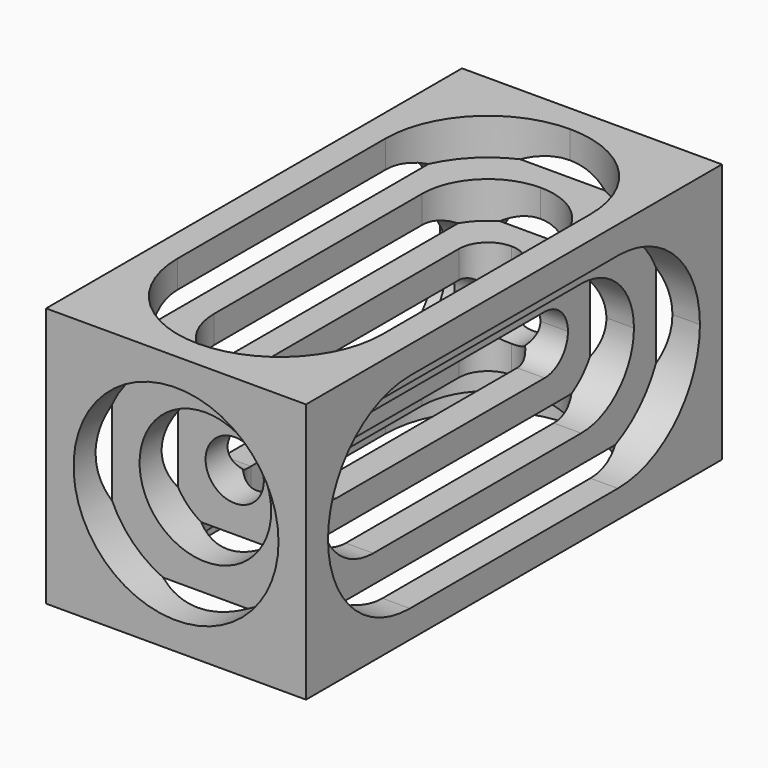
from build123d import *

# Parameters (mm, degrees)
F0_W      = 36.0172
F0_H      = 36.0172
F1_DEPTH  = 72.0344
F1_FACE_W = 36.0172
F1_FACE_H = 36.0172
F2_DEPTH  = 30.3022
F4_DEPTH  = 5.08
F6_DEPTH  = 5.08
F8_DEPTH  = 5.08
F10_DEPTH = 5.08
F12_DEPTH = 5.08
F14_DEPTH = 5.08
F16_DEPTH = 5.08
F18_DEPTH = 5.08
F20_DEPTH = 5.08
F22_DEPTH = 5.08
F24_DEPTH = 5.08
F26_DEPTH = 5.08
F28_DEPTH = 17.78
F30_DEPTH = 17.78
F32_DEPTH = 5.08
F34_DEPTH = 5.08


with BuildPart() as f1:
    # F0 (on Front) → F1 (new body)
    with BuildSketch(Plane.XZ):
        Rectangle(F0_W, F0_H)
    extrude(amount=-F1_DEPTH)

    # F3 (on face) → F4 (cut)
    with BuildSketch(Plane.XY.offset(18.0086)):
        with BuildLine():
            ThreePointArc((-14.1986, 18.0086), (-10.039926, 7.968674), (0, 3.81))
            ThreePointArc((0, 3.81), (10.039926, 7.968674), (14.1986, 18.0086))
            ThreePointArc((14.1986, 18.0086), (0, 32.2072), (-14.1986, 18.0086))
        make_face()
        with BuildLine():
            ThreePointArc((14.1986, 54.0258), (10.039926, 64.065726), (0, 68.2244))
            ThreePointArc((0, 68.2244), (-10.039926, 64.065726), (-14.1986, 54.0258))
            ThreePointArc((-14.1986, 54.0258), (0, 39.8272), (14.1986, 54.0258))
        make_face()
        with BuildLine():
            Line((-14.1986, 54.0258), (-14.1986, 18.0086))
            ThreePointArc((-14.1986, 18.0086), (0, 32.2072), (14.1986, 18.0086))
            Line((14.1986, 18.0086), (14.1986, 54.0258))
            ThreePointArc((14.1986, 54.0258), (0, 39.8272), (-14.1986, 54.0258))
        make_face()
    extrude(amount=-F4_DEPTH, mode=Mode.SUBTRACT)

    # F5 (on face) → F6 (cut)
    with BuildSketch(Plane.YZ.offset(18.0086)):
        with BuildLine():
            ThreePointArc((18.0086, -14.1986), (28.048526, -10.039926), (32.2072, 0))
            ThreePointArc((32.2072, 0), (28.048526, 10.039926), (18.0086, 14.1986))
            ThreePointArc((18.0086, 14.1986), (7.968674, 10.039926), (3.81, 0))
            ThreePointArc((3.81, 0), (7.968674, -10.039926), (18.0086, -14.1986))
        make_face()
        with BuildLine():
            ThreePointArc((18.0086, 14.1986), (28.048526, 10.039926), (32.2072, 0))
            ThreePointArc((32.2072, 0), (28.048526, -10.039926), (18.0086, -14.1986))
            Line((18.0086, -14.1986), (54.0258, -14.1986))
            ThreePointArc((54.0258, -14.1986), (39.8272, 0), (54.0258, 14.1986))
            Line((54.0258, 14.1986), (18.0086, 14.1986))
        make_face()
        with BuildLine():
            ThreePointArc((68.2244, 0), (64.065726, 10.039926), (54.0258, 14.1986))
            ThreePointArc((54.0258, 14.1986), (39.8272, 0), (54.0258, -14.1986))
            ThreePointArc((54.0258, -14.1986), (64.065726, -10.039926), (68.2244, 0))
        make_face()
    extrude(amount=-F6_DEPTH, mode=Mode.SUBTRACT)

    # F7 (on face) → F8 (cut)
    with BuildSketch(Plane(origin=(0, 0, -18.0086), x_dir=(1, 0, 0), z_dir=(0, 0, -1))):
        with BuildLine():
            ThreePointArc((0, -68.2244), (10.039926, -64.065726), (14.1986, -54.0258))
            ThreePointArc((14.1986, -54.0258), (0, -39.8272), (-14.1986, -54.0258))
            ThreePointArc((-14.1986, -54.0258), (-10.039926, -64.065726), (0, -68.2244))
        make_face()
        with BuildLine():
            ThreePointArc((-14.1986, -54.0258), (0, -39.8272), (14.1986, -54.0258))
            Line((14.1986, -54.0258), (14.1986, -18.0086))
            ThreePointArc((14.1986, -18.0086), (0, -32.2072), (-14.1986, -18.0086))
            Line((-14.1986, -18.0086), (-14.1986, -54.0258))
        make_face()
        with BuildLine():
            ThreePointArc((-14.1986, -18.0086), (0, -32.2072), (14.1986, -18.0086))
            ThreePointArc((14.1986, -18.0086), (10.039926, -7.968674), (0, -3.81))
            ThreePointArc((0, -3.81), (-10.039926, -7.968674), (-14.1986, -18.0086))
        make_face()
    extrude(amount=-F8_DEPTH, mode=Mode.SUBTRACT)

    # F9 (on face) → F10 (cut)
    with BuildSketch(Plane(origin=(-18.0086, 0, 0), x_dir=(0, -1, 0), z_dir=(-1, 0, 0))):
        with BuildLine():
            ThreePointArc((-54.0258, -14.1986), (-43.985874, -10.039926), (-39.8272, 0))
            ThreePointArc((-39.8272, 0), (-43.985874, 10.039926), (-54.0258, 14.1986))
            ThreePointArc((-54.0258, 14.1986), (-64.065726, 10.039926), (-68.2244, 0))
            ThreePointArc((-68.2244, 0), (-64.065726, -10.039926), (-54.0258, -14.1986))
        make_face()
        with BuildLine():
            ThreePointArc((-54.0258, 14.1986), (-43.985874, 10.039926), (-39.8272, 0))
            ThreePointArc((-39.8272, 0), (-43.985874, -10.039926), (-54.0258, -14.1986))
            Line((-54.0258, -14.1986), (-18.0086, -14.1986))
            ThreePointArc((-18.0086, -14.1986), (-32.2072, 0), (-18.0086, 14.1986))
            Line((-18.0086, 14.1986), (-54.0258, 14.1986))
        make_face()
        with BuildLine():
            ThreePointArc((-3.81, 0), (-7.968674, 10.039926), (-18.0086, 14.1986))
            ThreePointArc((-18.0086, 14.1986), (-32.2072, 0), (-18.0086, -14.1986))
            ThreePointArc((-18.0086, -14.1986), (-7.968674, -10.039926), (-3.81, 0))
        make_face()
    extrude(amount=-F10_DEPTH, mode=Mode.SUBTRACT)

    # F11 (on face) → F12 (cut)
    with BuildSketch(Plane.XZ):
        with BuildLine():
            ThreePointArc((-14.1986, 0), (0, -14.1986), (14.1986, 0))
            ThreePointArc((14.1986, 0), (0, 14.1986), (-14.1986, 0))
        make_face()
    extrude(amount=-F12_DEPTH, mode=Mode.SUBTRACT)

    # F13 (on face) → F14 (cut)
    with BuildSketch(Plane.XZ.offset(-5.08)):
        with BuildLine():
            ThreePointArc((0, 9.1186), (-6.447824, -6.447824), (9.1186, 0))
            ThreePointArc((9.1186, 0), (6.447824, 6.447824), (0, 9.1186))
        make_face()
    extrude(amount=-F14_DEPTH, mode=Mode.SUBTRACT)

    # F15 (on face) → F16 (cut)
    with BuildSketch(Plane(origin=(0, 72.0344, 0), x_dir=(-1, 0, 0), z_dir=(0, 1, 0))):
        with BuildLine():
            ThreePointArc((0, 14.1986), (-10.039926, -10.039926), (14.1986, 0))
            ThreePointArc((14.1986, 0), (10.039926, 10.039926), (0, 14.1986))
        make_face()
    extrude(amount=-F16_DEPTH, mode=Mode.SUBTRACT)

    # F17 (on face) → F18 (cut)
    with BuildSketch(Plane.YZ.offset(12.9286)):
        with BuildLine():
            ThreePointArc((18.0086, -9.1186), (24.456424, -6.447824), (27.1272, 0))
            ThreePointArc((27.1272, 0), (24.456424, 6.447824), (18.0086, 9.1186))
            ThreePointArc((18.0086, 9.1186), (11.560776, 6.447824), (8.89, 0))
            ThreePointArc((8.89, 0), (11.560776, -6.447824), (18.0086, -9.1186))
        make_face()
        with BuildLine():
            ThreePointArc((18.0086, 9.1186), (24.456424, 6.447824), (27.1272, 0))
            ThreePointArc((27.1272, 0), (24.456424, -6.447824), (18.0086, -9.1186))
            Line((18.0086, -9.1186), (54.0258, -9.1186))
            ThreePointArc((54.0258, -9.1186), (44.9072, 0), (54.0258, 9.1186))
            Line((54.0258, 9.1186), (18.0086, 9.1186))
        make_face()
        with BuildLine():
            ThreePointArc((63.1444, 0), (60.473624, 6.447824), (54.0258, 9.1186))
            ThreePointArc((54.0258, 9.1186), (44.9072, 0), (54.0258, -9.1186))
            ThreePointArc((54.0258, -9.1186), (60.473624, -6.447824), (63.1444, 0))
        make_face()
    extrude(amount=-F18_DEPTH, mode=Mode.SUBTRACT)

    # F19 (on face) → F20 (cut)
    with BuildSketch(Plane.XY.offset(12.9286)):
        with BuildLine():
            ThreePointArc((-9.1186, 54.0258), (0, 44.9072), (9.1186, 54.0258))
            ThreePointArc((9.1186, 54.0258), (6.447824, 60.473624), (0, 63.1444))
            ThreePointArc((0, 63.1444), (-6.447824, 60.473624), (-9.1186, 54.0258))
        make_face()
        with BuildLine():
            Line((9.1186, 18.0086), (9.1186, 54.0258))
            ThreePointArc((9.1186, 54.0258), (0, 44.9072), (-9.1186, 54.0258))
            Line((-9.1186, 54.0258), (-9.1186, 18.0086))
            ThreePointArc((-9.1186, 18.0086), (0, 27.1272), (9.1186, 18.0086))
        make_face()
        with BuildLine():
            ThreePointArc((0, 8.89), (6.447824, 11.560776), (9.1186, 18.0086))
            ThreePointArc((9.1186, 18.0086), (0, 27.1272), (-9.1186, 18.0086))
            ThreePointArc((-9.1186, 18.0086), (-6.447824, 11.560776), (0, 8.89))
        make_face()
    extrude(amount=-F20_DEPTH, mode=Mode.SUBTRACT)

    # F21 (on face) → F22 (cut)
    with BuildSketch(Plane(origin=(-12.9286, 0, 0), x_dir=(0, -1, 0), z_dir=(-1, 0, 0))):
        with BuildLine():
            ThreePointArc((-54.0258, -9.1186), (-47.577976, -6.447824), (-44.9072, 0))
            ThreePointArc((-44.9072, 0), (-47.577976, 6.447824), (-54.0258, 9.1186))
            ThreePointArc((-54.0258, 9.1186), (-60.473624, 6.447824), (-63.1444, 0))
            ThreePointArc((-63.1444, 0), (-60.473624, -6.447824), (-54.0258, -9.1186))
        make_face()
        with BuildLine():
            ThreePointArc((-54.0258, 9.1186), (-47.577976, 6.447824), (-44.9072, 0))
            ThreePointArc((-44.9072, 0), (-47.577976, -6.447824), (-54.0258, -9.1186))
            Line((-54.0258, -9.1186), (-18.0086, -9.1186))
            ThreePointArc((-18.0086, -9.1186), (-27.1272, 0), (-18.0086, 9.1186))
            Line((-18.0086, 9.1186), (-54.0258, 9.1186))
        make_face()
        with BuildLine():
            ThreePointArc((-8.89, 0), (-11.560776, 6.447824), (-18.0086, 9.1186))
            ThreePointArc((-18.0086, 9.1186), (-27.1272, 0), (-18.0086, -9.1186))
            ThreePointArc((-18.0086, -9.1186), (-11.560776, -6.447824), (-8.89, 0))
        make_face()
    extrude(amount=-F22_DEPTH, mode=Mode.SUBTRACT)

    # F23 (on face) → F24 (cut)
    with BuildSketch(Plane(origin=(0, 0, -12.9286), x_dir=(1, 0, 0), z_dir=(0, 0, -1))):
        with BuildLine():
            ThreePointArc((0, -63.1444), (6.447824, -60.473624), (9.1186, -54.0258))
            ThreePointArc((9.1186, -54.0258), (0, -44.9072), (-9.1186, -54.0258))
            ThreePointArc((-9.1186, -54.0258), (-6.447824, -60.473624), (0, -63.1444))
        make_face()
        with BuildLine():
            ThreePointArc((-9.1186, -54.0258), (0, -44.9072), (9.1186, -54.0258))
            Line((9.1186, -54.0258), (9.1186, -18.0086))
            ThreePointArc((9.1186, -18.0086), (0, -27.1272), (-9.1186, -18.0086))
            Line((-9.1186, -18.0086), (-9.1186, -54.0258))
        make_face()
        with BuildLine():
            ThreePointArc((-9.1186, -18.0086), (0, -27.1272), (9.1186, -18.0086))
            ThreePointArc((9.1186, -18.0086), (6.447824, -11.560776), (0, -8.89))
            ThreePointArc((0, -8.89), (-6.447824, -11.560776), (-9.1186, -18.0086))
        make_face()
    extrude(amount=-F24_DEPTH, mode=Mode.SUBTRACT)

    # F25 (on face) → F26 (cut)
    with BuildSketch(Plane(origin=(0, 66.9544, 0), x_dir=(-1, 0, 0), z_dir=(0, 1, 0))):
        with BuildLine():
            ThreePointArc((0, 9.1186), (-6.447824, -6.447824), (9.1186, 0))
            ThreePointArc((9.1186, 0), (6.447824, 6.447824), (0, 9.1186))
        make_face()
    extrude(amount=-F26_DEPTH, mode=Mode.SUBTRACT)

    # F27 (on face) → F28 (cut)
    with BuildSketch(Plane.XY.offset(7.8486)):
        with BuildLine():
            ThreePointArc((0, 13.97), (2.855721, 15.152879), (4.0386, 18.0086))
            ThreePointArc((4.0386, 18.0086), (0, 22.0472), (-4.0386, 18.0086))
            ThreePointArc((-4.0386, 18.0086), (-2.855721, 15.152879), (0, 13.97))
        make_face()
        with BuildLine():
            ThreePointArc((-4.0386, 18.0086), (0, 22.0472), (4.0386, 18.0086))
            Line((4.0386, 18.0086), (4.0386, 54.0258))
            ThreePointArc((4.0386, 54.0258), (0, 49.9872), (-4.0386, 54.0258))
            Line((-4.0386, 54.0258), (-4.0386, 18.0086))
        make_face()
        with BuildLine():
            ThreePointArc((-4.0386, 54.0258), (0, 49.9872), (4.0386, 54.0258))
            ThreePointArc((4.0386, 54.0258), (2.855721, 56.881521), (0, 58.0644))
            ThreePointArc((0, 58.0644), (-2.855721, 56.881521), (-4.0386, 54.0258))
        make_face()
    extrude(amount=-F28_DEPTH, mode=Mode.SUBTRACT)

    # F29 (on face) → F30 (cut)
    with BuildSketch(Plane.YZ.offset(7.8486)):
        with BuildLine():
            ThreePointArc((18.0086, -4.0386), (20.864321, -2.855721), (22.0472, 0))
            ThreePointArc((22.0472, 0), (20.864321, 2.855721), (18.0086, 4.0386))
            ThreePointArc((18.0086, 4.0386), (15.152879, 2.855721), (13.97, 0))
            ThreePointArc((13.97, 0), (15.152879, -2.855721), (18.0086, -4.0386))
        make_face()
        with BuildLine():
            ThreePointArc((18.0086, 4.0386), (20.864321, 2.855721), (22.0472, 0))
            ThreePointArc((22.0472, 0), (20.864321, -2.855721), (18.0086, -4.0386))
            Line((18.0086, -4.0386), (54.0258, -4.0386))
            ThreePointArc((54.0258, -4.0386), (49.9872, 0), (54.0258, 4.0386))
            Line((54.0258, 4.0386), (18.0086, 4.0386))
        make_face()
        with BuildLine():
            ThreePointArc((58.0644, 0), (56.881521, 2.855721), (54.0258, 4.0386))
            ThreePointArc((54.0258, 4.0386), (49.9872, 0), (54.0258, -4.0386))
            ThreePointArc((54.0258, -4.0386), (56.881521, -2.855721), (58.0644, 0))
        make_face()
    extrude(amount=-F30_DEPTH, mode=Mode.SUBTRACT)

    # F31 (on face) → F32 (cut)
    with BuildSketch(Plane.XZ.offset(-10.16)):
        with BuildLine():
            ThreePointArc((0, 4.0386), (-2.855721, -2.855721), (4.0386, 0))
            ThreePointArc((4.0386, 0), (2.855721, 2.855721), (0, 4.0386))
        make_face()
    extrude(amount=-F32_DEPTH, mode=Mode.SUBTRACT)

    # F33 (on face) → F34 (cut)
    with BuildSketch(Plane(origin=(0, 61.8744, 0), x_dir=(-1, 0, 0), z_dir=(0, 1, 0))):
        with BuildLine():
            ThreePointArc((0, 4.0386), (-2.855721, -2.855721), (4.0386, 0))
            ThreePointArc((4.0386, 0), (2.855721, 2.855721), (0, 4.0386))
        make_face()
    extrude(amount=-F34_DEPTH, mode=Mode.SUBTRACT)


with BuildPart() as f2:
    # F1_face (on face) → F2 (new body)
    with BuildSketch(Plane(origin=(0, 72.0344, 0), x_dir=(1, 0, 0), z_dir=(0, 1, 0))):
        Rectangle(F1_FACE_W, F1_FACE_H)
    extrude(amount=F2_DEPTH)


solid = f1.part
